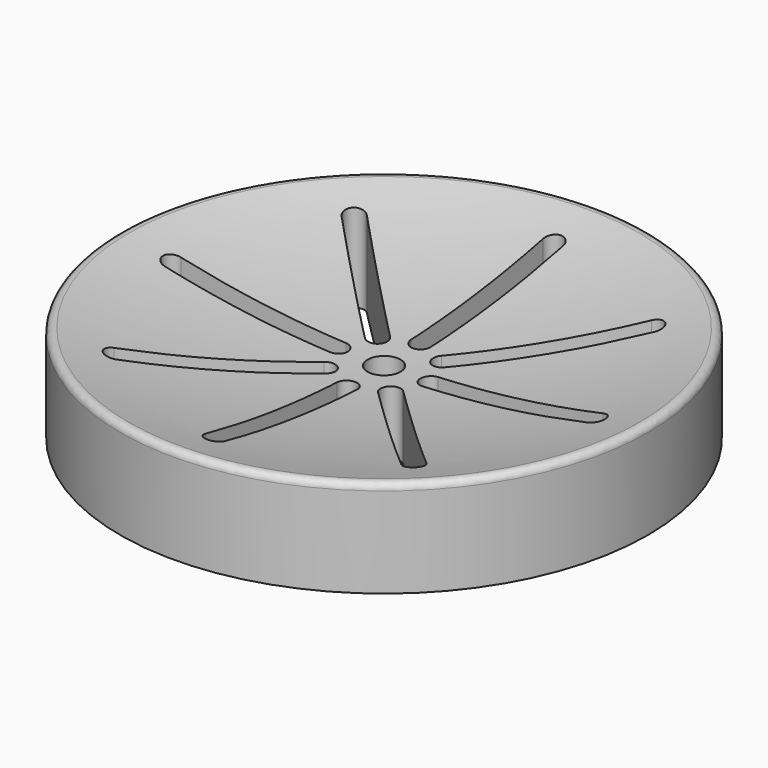
from build123d import *

# Parameters (mm, degrees)
F0_R     = 40
F1_DEPTH = 15
F4_R     = 1
F5_R     = 2.5
F6_DEPTH = 19.6


with BuildPart() as f1:
    # F0 (on Top) → F1 (new body)
    with BuildSketch(Plane.XY):
        Circle(F0_R)
    extrude(amount=F1_DEPTH)

    # F2 (on Front) → F3 (revolve, cut)
    with BuildSketch(Plane.XZ):
        with BuildLine():
            Line((0, 15), (0, 9.568323))
            ThreePointArc((0, 9.568323), (20.183552, 10.932445), (40, 15))
            Line((40, 15), (0, 15))
        make_face()
    revolve(axis=Axis((0, 0, 12.284161), (0, 0, -1)), mode=Mode.SUBTRACT)

    # F4
    f4_edges = [f1.edges().sort_by_distance(p)[0] for p in [
        (-40, 0, 15),
    ]]
    fillet(f4_edges, radius=F4_R)

    # F5 (on Top) → F6 (cut)
    with BuildSketch(Plane.XY):
        Circle(F5_R)
        with BuildLine():
            Line((1.5, 7), (1.5, 32))
            ThreePointArc((1.5, 32), (0, 33.5), (-1.5, 32))
            Line((-1.5, 32), (-1.5, 7))
            ThreePointArc((-1.5, 7), (0, 5.5), (1.5, 7))
        make_face()
        with BuildLine():
            Line((-3.889087, 6.010408), (-21.566757, 23.688077))
            ThreePointArc((-21.566757, 23.688077), (-23.688077, 23.688077), (-23.688077, 21.566757))
            Line((-23.688077, 21.566757), (-6.010408, 3.889087))
            ThreePointArc((-6.010408, 3.889087), (-3.889087, 3.889087), (-3.889087, 6.010408))
        make_face()
        with BuildLine():
            Line((-7, 1.5), (-32, 1.5))
            ThreePointArc((-32, 1.5), (-33.5, 0), (-32, -1.5))
            Line((-32, -1.5), (-7, -1.5))
            ThreePointArc((-7, -1.5), (-5.5, 0), (-7, 1.5))
        make_face()
        with BuildLine():
            Line((-6.010408, -3.889087), (-23.688077, -21.566757))
            ThreePointArc((-23.688077, -21.566757), (-23.688077, -23.688077), (-21.566757, -23.688077))
            Line((-21.566757, -23.688077), (-3.889087, -6.010408))
            ThreePointArc((-3.889087, -6.010408), (-3.889087, -3.889087), (-6.010408, -3.889087))
        make_face()
        with BuildLine():
            Line((-1.5, -7), (-1.5, -32))
            ThreePointArc((-1.5, -32), (0, -33.5), (1.5, -32))
            Line((1.5, -32), (1.5, -7))
            ThreePointArc((1.5, -7), (0, -5.5), (-1.5, -7))
        make_face()
        with BuildLine():
            Line((3.889087, -6.010408), (21.566757, -23.688077))
            ThreePointArc((21.566757, -23.688077), (23.688077, -23.688077), (23.688077, -21.566757))
            Line((23.688077, -21.566757), (6.010408, -3.889087))
            ThreePointArc((6.010408, -3.889087), (3.889087, -3.889087), (3.889087, -6.010408))
        make_face()
        with BuildLine():
            Line((7, -1.5), (32, -1.5))
            ThreePointArc((32, -1.5), (33.5, 0), (32, 1.5))
            Line((32, 1.5), (7, 1.5))
            ThreePointArc((7, 1.5), (5.5, 0), (7, -1.5))
        make_face()
        with BuildLine():
            Line((6.010408, 3.889087), (23.688077, 21.566757))
            ThreePointArc((23.688077, 21.566757), (23.688077, 23.688077), (21.566757, 23.688077))
            Line((21.566757, 23.688077), (3.889087, 6.010408))
            ThreePointArc((3.889087, 6.010408), (3.889087, 3.889087), (6.010408, 3.889087))
        make_face()
    extrude(amount=F6_DEPTH, mode=Mode.SUBTRACT)


solid = f1.part
